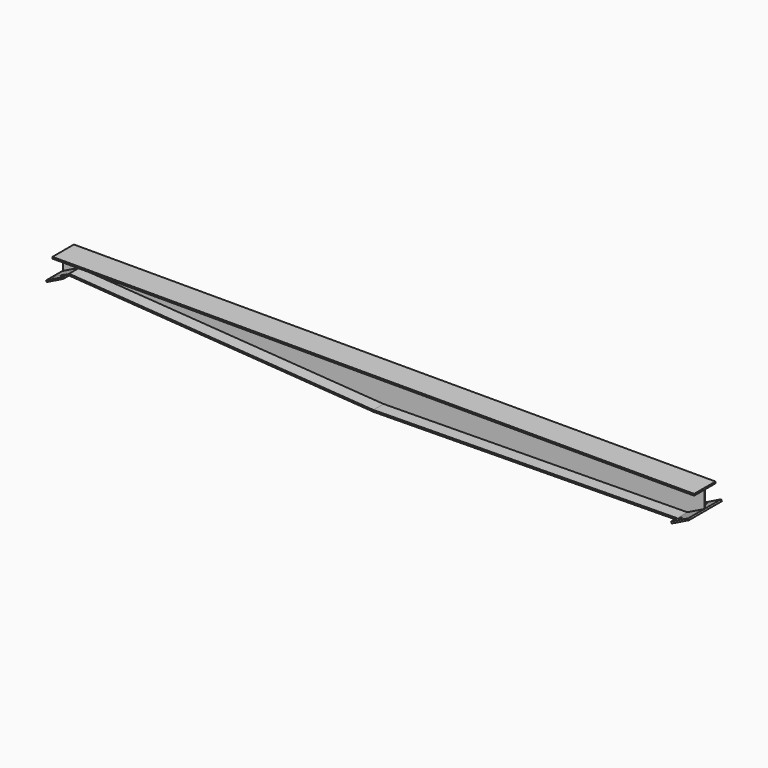
from build123d import *

# Parameters (mm, degrees)
F1_DEPTH = 2.5
F3_DEPTH = 65
F5_W     = 93.5529853487
F5_H     = 200
F5_R     = 8.5
F6_DEPTH = 8
F7_W     = 90
F7_H     = 200
F7_R     = 8.5
F8_DEPTH = 7


with BuildPart() as f1:
    # F0 (on Front) → F1 (new body, symmetric)
    with BuildSketch(Plane.XZ):
        Polygon((1560, 140), (0, 140), (-1560, 140), (-1560, 62.1235928258), (-1479.3162212655, 102), (0, 0), (1479.3162212655, 17), (1560, 56.8764071742), align=None)
    extrude(amount=F1_DEPTH, both=True)

    # F2 (on Front) → F3 (join, symmetric)
    with BuildSketch(Plane.XZ):
        Polygon((1479.3162212655, 17), (0, 0), (-1479.3162212655, 102), (-1560, 62.1235928258), (-1560, 54.1045985372), (-1479.3162212655, 93.9810057114), (0, -8.0189942886), (1479.3162212655, 8.9810057114), (1560, 48.8574128856), (1560, 56.8764071742), align=None)
        Polygon((-1560, 140), (0, 140), (1560, 140), (1560, 148), (0, 148), (-1560, 148), align=None)
    extrude(amount=F3_DEPTH, both=True)

    # F5 (on face) → F6 (join)
    with BuildSketch(Plane(origin=(286.8403234569, 0, -580.3772914858), x_dir=(0.8964864304, 0, 0.4430711908), z_dir=(0.4430711908, 0, -0.8964864304))):
        with Locations((1376.9426361803, 0)):
            Rectangle(F5_W, F5_H)
        with Locations((1358.7191288546, -75)):
            Circle(F5_R, mode=Mode.SUBTRACT)
        with Locations((1358.7191288546, 75)):
            Circle(F5_R, mode=Mode.SUBTRACT)
    extrude(amount=-F6_DEPTH)

    # F7 (on face) → F8 (join)
    with BuildSketch(Plane(origin=(-327.7375870739, 0, 663.126616271), x_dir=(0.8964864304, 0, 0.4430711908), z_dir=(0.4430711908, 0, -0.8964864304))):
        with Locations((-1329.5466424952, 0)):
            Rectangle(F7_W, F7_H)
        with Locations((-1309.5466424952, -73.3960138768)):
            Circle(F7_R, mode=Mode.SUBTRACT)
        with Locations((-1309.5466424952, 73.3960138768)):
            Circle(F7_R, mode=Mode.SUBTRACT)
    extrude(amount=-F8_DEPTH)


solid = f1.part
